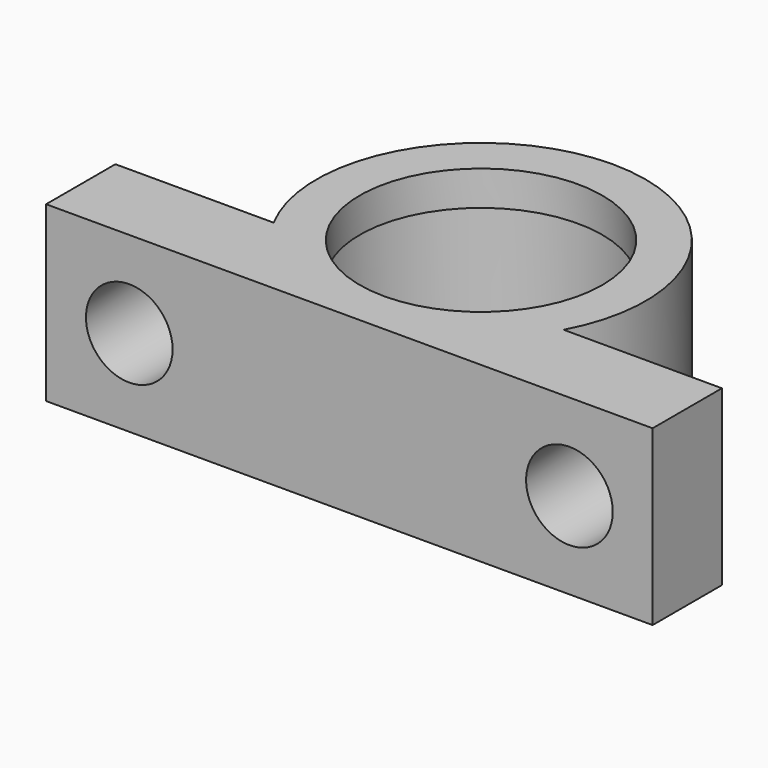
from build123d import *

# Parameters (mm, degrees)
F0_R     = 8
F1_DEPTH = 8
F3_DEPTH = 2
F4_R     = 2.5
F5_DEPTH = 25.4


with BuildPart() as f1:
    # F0 (on Top) → F1 (new body)
    with BuildSketch(Plane.XY):
        with BuildLine():
            Line((17.5, -4.5), (8.3666, -4.5))
            ThreePointArc((8.3666, -4.5), (0, 9.5), (-8.3666, -4.5))
            Line((-8.3666, -4.5), (-17.5, -4.5))
            Line((-17.5, -4.5), (-17.5, -9.5))
            Line((-17.5, -9.5), (0, -9.5))
            Line((0, -9.5), (17.5, -9.5))
            Line((17.5, -9.5), (17.5, -4.5))
        make_face()
        Circle(F0_R, mode=Mode.SUBTRACT)
    extrude(amount=-F1_DEPTH)

    # F2 (on Top) + F0 (on Top) → F3 (join)
    with BuildSketch(Plane.XY):
        with BuildLine():
            ThreePointArc((0, -7), (4.949747, -4.949747), (7, 0))
            ThreePointArc((7, 0), (-4.949747, 4.949747), (0, -7))
        make_face()
        with BuildLine():
            Line((17.5, -4.5), (8.3666, -4.5))
            ThreePointArc((8.3666, -4.5), (0, 9.5), (-8.3666, -4.5))
            Line((-8.3666, -4.5), (-17.5, -4.5))
            Line((-17.5, -4.5), (-17.5, -9.5))
            Line((-17.5, -9.5), (0, -9.5))
            Line((0, -9.5), (17.5, -9.5))
            Line((17.5, -9.5), (17.5, -4.5))
        make_face()
        with BuildLine():
            ThreePointArc((0, -7), (-4.949747, 4.949747), (7, 0))
            ThreePointArc((7, 0), (4.949747, -4.949747), (0, -7))
        make_face(mode=Mode.SUBTRACT)
    with BuildSketch(Plane.XY):
        with BuildLine():
            Line((17.5, -4.5), (8.3666, -4.5))
            ThreePointArc((8.3666, -4.5), (0, 9.5), (-8.3666, -4.5))
            Line((-8.3666, -4.5), (-17.5, -4.5))
            Line((-17.5, -4.5), (-17.5, -9.5))
            Line((-17.5, -9.5), (0, -9.5))
            Line((0, -9.5), (17.5, -9.5))
            Line((17.5, -9.5), (17.5, -4.5))
        make_face()
        Circle(F0_R, mode=Mode.SUBTRACT)
    extrude(amount=F3_DEPTH)

    # F4 (on face) → F5 (cut)
    with BuildSketch(Plane.XZ.offset(9.5)):
        with Locations((-12.7, -3)):
            Circle(F4_R)
        with Locations((12.7, -3)):
            Circle(F4_R)
    extrude(amount=-F5_DEPTH, mode=Mode.SUBTRACT)


solid = f1.part
